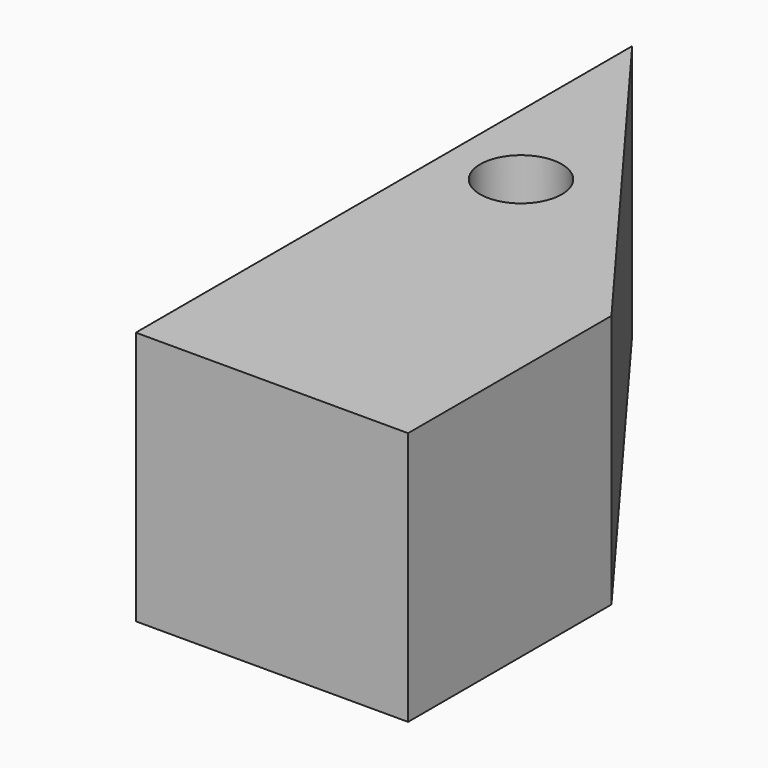
from build123d import *

# Parameters (mm, degrees)
F1_DEPTH  = 25
F1_FACE_W = 26.781376
F1_FACE_H = 25
F2_DEPTH  = 25
F3_R      = 4.013917
F4_DEPTH  = 25.001


with BuildPart() as f1:
    # F0 (on Top) → F1 (new body)
    with BuildSketch(Plane.XY):
        Polygon((-31.643473, 8.36918), (-58.424849, 44.396508), (-58.424849, 8.36918), align=None)
    extrude(amount=F1_DEPTH)

    # F1_face (on face) → F2 (join)
    with BuildSketch(Plane(origin=(-45.034161, 8.36918, 12.5), x_dir=(1, 0, 0), z_dir=(0, -1, 0))):
        Rectangle(F1_FACE_W, F1_FACE_H)
    extrude(amount=F2_DEPTH)

    # F3 (on face) → F4 (cut, through all)
    with BuildSketch(Plane(origin=(0, 0, 0), x_dir=(1, 0, 0), z_dir=(0, 0, -1))):
        with Locations((-51.251266, -21.759868)):
            Circle(F3_R)
    extrude(amount=-F4_DEPTH, mode=Mode.SUBTRACT)


solid = f1.part
